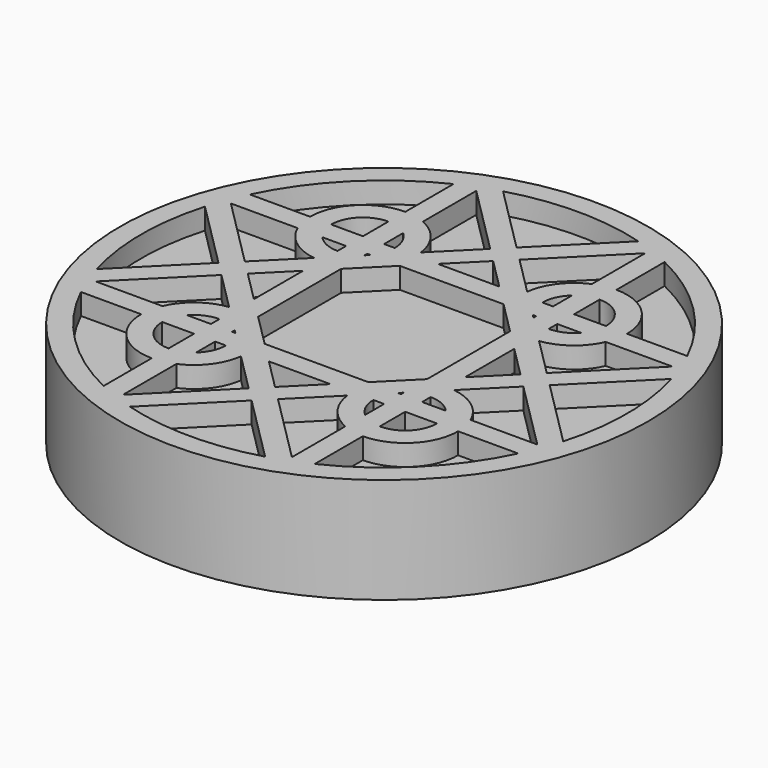
from build123d import *

# Parameters (mm, degrees)
F0_R     = 12.5
F1_DEPTH = 5
F2_DEPTH = 4


with BuildPart() as f1:
    # F0 (on Top) → F1 (new body)
    with BuildSketch(Plane.XY):
        Circle(F0_R)
        with BuildLine():
            Line((-10.356158, -5), (-7.5055, -5))
            ThreePointArc((-7.5055, -5), (-6.771656, -6.771656), (-5, -7.5055))
            Line((-5, -7.5055), (-5, -10.356158))
            ThreePointArc((-5, -10.356158), (-8.131728, -8.131728), (-10.356158, -5))
        make_face(mode=Mode.SUBTRACT)
        with BuildLine():
            Line((-3.202399, -11.045118), (0, -7.842719))
            Line((0, -7.842719), (3.202399, -11.045118))
            ThreePointArc((3.202399, -11.045118), (0, -11.5), (-3.202399, -11.045118))
        make_face(mode=Mode.SUBTRACT)
        with BuildLine():
            Line((-0.69314, -7.149579), (-4, -10.456439))
            Line((-4, -10.456439), (-4, -7.297288))
            ThreePointArc((-4, -7.297288), (-2.998645, -6.507352), (-2.515906, -5.326813))
            Line((-2.515906, -5.326813), (-0.69314, -7.149579))
        make_face(mode=Mode.SUBTRACT)
        with BuildLine():
            Line((-7.297288, -4), (-10.456439, -4))
            Line((-10.456439, -4), (-7.149579, -0.69314))
            Line((-7.149579, -0.69314), (-5.326813, -2.515906))
            ThreePointArc((-5.326813, -2.515906), (-6.507352, -2.998645), (-7.297288, -4))
        make_face(mode=Mode.SUBTRACT)
        with BuildLine():
            Line((-6.5055, -5), (-5, -5))
            Line((-5, -5), (-5, -6.5055))
            ThreePointArc((-5, -6.5055), (-6.064549, -6.064549), (-6.5055, -5))
        make_face(mode=Mode.SUBTRACT)
        with BuildLine():
            Line((-4, -6.125402), (-4, -5))
            Line((-4, -5), (-3.4945, -5))
            ThreePointArc((-3.4945, -5), (-3.626677, -5.616859), (-4, -6.125402))
        make_face(mode=Mode.SUBTRACT)
        with BuildLine():
            ThreePointArc((-6.125402, -4), (-5.616859, -3.626677), (-5, -3.4945))
            Line((-5, -3.4945), (-5, -4))
            Line((-5, -4), (-6.125402, -4))
        make_face(mode=Mode.SUBTRACT)
        Polygon((-3.842719, -4), (-4, -4), (-4, -3.842719), align=None, mode=Mode.SUBTRACT)
        with BuildLine():
            Line((4, -7.297288), (4, -10.456439))
            Line((4, -10.456439), (0.69314, -7.149579))
            Line((0.69314, -7.149579), (2.515906, -5.326813))
            ThreePointArc((2.515906, -5.326813), (2.998645, -6.507352), (4, -7.297288))
        make_face(mode=Mode.SUBTRACT)
        with BuildLine():
            ThreePointArc((5, -7.5055), (6.771656, -6.771656), (7.5055, -5))
            Line((7.5055, -5), (10.356158, -5))
            ThreePointArc((10.356158, -5), (8.131728, -8.131728), (5, -10.356158))
            Line((5, -10.356158), (5, -7.5055))
        make_face(mode=Mode.SUBTRACT)
        Polygon((-1.456439, -5), (0, -5), (1.456439, -5), (0, -6.456439), align=None, mode=Mode.SUBTRACT)
        with BuildLine():
            Line((3.4945, -5), (4, -5))
            Line((4, -5), (4, -6.125402))
            ThreePointArc((4, -6.125402), (3.626677, -5.616859), (3.4945, -5))
        make_face(mode=Mode.SUBTRACT)
        with BuildLine():
            Line((5, -6.5055), (5, -5))
            Line((5, -5), (6.5055, -5))
            ThreePointArc((6.5055, -5), (6.064549, -6.064549), (5, -6.5055))
        make_face(mode=Mode.SUBTRACT)
        Polygon((4, -4), (3.842719, -4), (4, -3.842719), align=None, mode=Mode.SUBTRACT)
        with BuildLine():
            Line((6.125402, -4), (5, -4))
            Line((5, -4), (5, -3.4945))
            ThreePointArc((5, -3.4945), (5.616859, -3.626677), (6.125402, -4))
        make_face(mode=Mode.SUBTRACT)
        with BuildLine():
            Line((7.149579, -0.69314), (10.456439, -4))
            Line((10.456439, -4), (7.297288, -4))
            ThreePointArc((7.297288, -4), (6.507352, -2.998645), (5.326813, -2.515906))
            Line((5.326813, -2.515906), (7.149579, -0.69314))
        make_face(mode=Mode.SUBTRACT)
        with BuildLine():
            Line((7.842719, 0), (11.045118, 3.202399))
            ThreePointArc((11.045118, 3.202399), (11.5, 0), (11.045118, -3.202399))
            Line((11.045118, -3.202399), (7.842719, 0))
        make_face(mode=Mode.SUBTRACT)
        with BuildLine():
            Line((-7.842719, 0), (-11.045118, -3.202399))
            ThreePointArc((-11.045118, -3.202399), (-11.5, 0), (-11.045118, 3.202399))
            Line((-11.045118, 3.202399), (-7.842719, 0))
        make_face(mode=Mode.SUBTRACT)
        with BuildLine():
            Line((-5.32697, 2.515749), (-7.149579, 0.69314))
            Line((-7.149579, 0.69314), (-10.456439, 4))
            Line((-10.456439, 4), (-7.297479, 4))
            ThreePointArc((-7.297479, 4), (-6.507542, 2.998569), (-5.32697, 2.515749))
        make_face(mode=Mode.SUBTRACT)
        Polygon((-6.456439, 0), (-5, 1.456439), (-5, -1.456439), align=None, mode=Mode.SUBTRACT)
        with BuildLine():
            Line((-6.125402, 4), (-5, 4))
            Line((-5, 4), (-5, 3.4945))
            ThreePointArc((-5, 3.4945), (-5.616859, 3.626677), (-6.125402, 4))
        make_face(mode=Mode.SUBTRACT)
        Polygon((-4, 4), (-3.842719, 4), (-4, 3.842719), align=None, mode=Mode.SUBTRACT)
        with BuildLine():
            Line((-5, 6.5055), (-5, 5))
            Line((-5, 5), (-6.5055, 5))
            ThreePointArc((-6.5055, 5), (-6.064549, 6.064549), (-5, 6.5055))
        make_face(mode=Mode.SUBTRACT)
        with BuildLine():
            ThreePointArc((-4, 6.125402), (-3.626677, 5.616859), (-3.4945, 5))
            Line((-3.4945, 5), (-4, 5))
            Line((-4, 5), (-4, 6.125402))
        make_face(mode=Mode.SUBTRACT)
        with BuildLine():
            ThreePointArc((-10.356158, 5), (-8.131728, 8.131728), (-5, 10.356158))
            Line((-5, 10.356158), (-5, 7.505676))
            ThreePointArc((-5, 7.505676), (-6.77178, 6.77178), (-7.505676, 5))
            Line((-7.505676, 5), (-10.356158, 5))
        make_face(mode=Mode.SUBTRACT)
        with BuildLine():
            Line((-4, 7.297479), (-4, 10.456439))
            Line((-4, 10.456439), (-0.69314, 7.149579))
            Line((-0.69314, 7.149579), (-2.515749, 5.32697))
            ThreePointArc((-2.515749, 5.32697), (-2.998569, 6.507542), (-4, 7.297479))
        make_face(mode=Mode.SUBTRACT)
        Polygon((-4, -2.456439), (-4, 2.456439), (-2.456439, 4), (2.456439, 4), (4, 2.456439), (4, -2.456439), (2.456439, -4), (-2.456439, -4), align=None, mode=Mode.SUBTRACT)
        Polygon((5, -1.456439), (5, 0), (5, 1.456439), (6.456439, 0), align=None, mode=Mode.SUBTRACT)
        Polygon((1.456439, 5), (0, 5), (-1.456439, 5), (0, 6.456439), align=None, mode=Mode.SUBTRACT)
        Polygon((3.842719, 4), (4, 4), (4, 3.842719), align=None, mode=Mode.SUBTRACT)
        with BuildLine():
            ThreePointArc((6.125402, 4), (5.616859, 3.626677), (5, 3.4945))
            Line((5, 3.4945), (5, 4))
            Line((5, 4), (6.125402, 4))
        make_face(mode=Mode.SUBTRACT)
        with BuildLine():
            Line((4, 5), (3.4945, 5))
            ThreePointArc((3.4945, 5), (3.626677, 5.616859), (4, 6.125402))
            Line((4, 6.125402), (4, 5))
        make_face(mode=Mode.SUBTRACT)
        with BuildLine():
            Line((6.5055, 5), (5, 5))
            Line((5, 5), (5, 6.5055))
            ThreePointArc((5, 6.5055), (6.064549, 6.064549), (6.5055, 5))
        make_face(mode=Mode.SUBTRACT)
        with BuildLine():
            Line((7.297479, 4), (10.456439, 4))
            Line((10.456439, 4), (7.149579, 0.69314))
            Line((7.149579, 0.69314), (5.32697, 2.515749))
            ThreePointArc((5.32697, 2.515749), (6.507542, 2.998569), (7.297479, 4))
        make_face(mode=Mode.SUBTRACT)
        with BuildLine():
            Line((0.69314, 7.149579), (4, 10.456439))
            Line((4, 10.456439), (4, 7.297479))
            ThreePointArc((4, 7.297479), (2.998569, 6.507542), (2.515749, 5.32697))
            Line((2.515749, 5.32697), (0.69314, 7.149579))
        make_face(mode=Mode.SUBTRACT)
        with BuildLine():
            Line((0, 7.842719), (-3.202399, 11.045118))
            ThreePointArc((-3.202399, 11.045118), (0, 11.5), (3.202399, 11.045118))
            Line((3.202399, 11.045118), (0, 7.842719))
        make_face(mode=Mode.SUBTRACT)
        with BuildLine():
            ThreePointArc((7.505676, 5), (6.77178, 6.77178), (5, 7.505676))
            Line((5, 7.505676), (5, 10.356158))
            ThreePointArc((5, 10.356158), (8.131728, 8.131728), (10.356158, 5))
            Line((10.356158, 5), (7.505676, 5))
        make_face(mode=Mode.SUBTRACT)
    extrude(amount=F1_DEPTH)

    # F0 (on Top) → F2 (join)
    with BuildSketch(Plane.XY):
        Polygon((-2.456439, 4), (-4, 2.456439), (-4, -2.456439), (-2.456439, -4), (2.456439, -4), (4, -2.456439), (4, 2.456439), (2.456439, 4), align=None)
        Polygon((-5, -1.456439), (-5, 1.456439), (-6.456439, 0), align=None)
        with BuildLine():
            Line((-10.456439, 4), (-7.149579, 0.69314))
            Line((-7.149579, 0.69314), (-5.32697, 2.515749))
            ThreePointArc((-5.32697, 2.515749), (-6.507542, 2.998569), (-7.297479, 4))
            Line((-7.297479, 4), (-10.456439, 4))
        make_face()
        with BuildLine():
            ThreePointArc((-11.045118, 3.202399), (-11.5, 0), (-11.045118, -3.202399))
            Line((-11.045118, -3.202399), (-7.842719, 0))
            Line((-7.842719, 0), (-11.045118, 3.202399))
        make_face()
        with BuildLine():
            Line((-7.149579, -0.69314), (-10.456439, -4))
            Line((-10.456439, -4), (-7.297288, -4))
            ThreePointArc((-7.297288, -4), (-6.507352, -2.998645), (-5.326813, -2.515906))
            Line((-5.326813, -2.515906), (-7.149579, -0.69314))
        make_face()
        with BuildLine():
            ThreePointArc((-5, -7.5055), (-6.771656, -6.771656), (-7.5055, -5))
            Line((-7.5055, -5), (-10.356158, -5))
            ThreePointArc((-10.356158, -5), (-8.131728, -8.131728), (-5, -10.356158))
            Line((-5, -10.356158), (-5, -7.5055))
        make_face()
        with BuildLine():
            Line((-4, -7.297288), (-4, -10.456439))
            Line((-4, -10.456439), (-0.69314, -7.149579))
            Line((-0.69314, -7.149579), (-2.515906, -5.326813))
            ThreePointArc((-2.515906, -5.326813), (-2.998645, -6.507352), (-4, -7.297288))
        make_face()
        with BuildLine():
            Line((3.202399, -11.045118), (0, -7.842719))
            Line((0, -7.842719), (-3.202399, -11.045118))
            ThreePointArc((-3.202399, -11.045118), (0, -11.5), (3.202399, -11.045118))
        make_face()
        with BuildLine():
            Line((0.69314, -7.149579), (4, -10.456439))
            Line((4, -10.456439), (4, -7.297288))
            ThreePointArc((4, -7.297288), (2.998645, -6.507352), (2.515906, -5.326813))
            Line((2.515906, -5.326813), (0.69314, -7.149579))
        make_face()
        Polygon((1.456439, -5), (0, -5), (-1.456439, -5), (0, -6.456439), align=None)
        with BuildLine():
            Line((10.356158, -5), (7.5055, -5))
            ThreePointArc((7.5055, -5), (6.771656, -6.771656), (5, -7.5055))
            Line((5, -7.5055), (5, -10.356158))
            ThreePointArc((5, -10.356158), (8.131728, -8.131728), (10.356158, -5))
        make_face()
        with BuildLine():
            Line((7.297288, -4), (10.456439, -4))
            Line((10.456439, -4), (7.149579, -0.69314))
            Line((7.149579, -0.69314), (5.326813, -2.515906))
            ThreePointArc((5.326813, -2.515906), (6.507352, -2.998645), (7.297288, -4))
        make_face()
        with BuildLine():
            ThreePointArc((11.045118, -3.202399), (11.5, 0), (11.045118, 3.202399))
            Line((11.045118, 3.202399), (7.842719, 0))
            Line((7.842719, 0), (11.045118, -3.202399))
        make_face()
        with BuildLine():
            Line((7.149579, 0.69314), (10.456439, 4))
            Line((10.456439, 4), (7.297479, 4))
            ThreePointArc((7.297479, 4), (6.507542, 2.998569), (5.32697, 2.515749))
            Line((5.32697, 2.515749), (7.149579, 0.69314))
        make_face()
        Polygon((5, 1.456439), (5, 0), (5, -1.456439), (6.456439, 0), align=None)
        with BuildLine():
            Line((5, 10.356158), (5, 7.505676))
            ThreePointArc((5, 7.505676), (6.77178, 6.77178), (7.505676, 5))
            Line((7.505676, 5), (10.356158, 5))
            ThreePointArc((10.356158, 5), (8.131728, 8.131728), (5, 10.356158))
        make_face()
        with BuildLine():
            Line((4, 7.297479), (4, 10.456439))
            Line((4, 10.456439), (0.69314, 7.149579))
            Line((0.69314, 7.149579), (2.515749, 5.32697))
            ThreePointArc((2.515749, 5.32697), (2.998569, 6.507542), (4, 7.297479))
        make_face()
        with BuildLine():
            ThreePointArc((3.202399, 11.045118), (0, 11.5), (-3.202399, 11.045118))
            Line((-3.202399, 11.045118), (0, 7.842719))
            Line((0, 7.842719), (3.202399, 11.045118))
        make_face()
        with BuildLine():
            Line((-0.69314, 7.149579), (-4, 10.456439))
            Line((-4, 10.456439), (-4, 7.297479))
            ThreePointArc((-4, 7.297479), (-2.998569, 6.507542), (-2.515749, 5.32697))
            Line((-2.515749, 5.32697), (-0.69314, 7.149579))
        make_face()
        with BuildLine():
            Line((-5, 7.505676), (-5, 10.356158))
            ThreePointArc((-5, 10.356158), (-8.131728, 8.131728), (-10.356158, 5))
            Line((-10.356158, 5), (-7.505676, 5))
            ThreePointArc((-7.505676, 5), (-6.77178, 6.77178), (-5, 7.505676))
        make_face()
        Polygon((-1.456439, 5), (0, 5), (1.456439, 5), (0, 6.456439), align=None)
        with BuildLine():
            Line((-6.5055, 5), (-5, 5))
            Line((-5, 5), (-5, 6.5055))
            ThreePointArc((-5, 6.5055), (-6.064549, 6.064549), (-6.5055, 5))
        make_face()
        with BuildLine():
            Line((-4, 5), (-3.4945, 5))
            ThreePointArc((-3.4945, 5), (-3.626677, 5.616859), (-4, 6.125402))
            Line((-4, 6.125402), (-4, 5))
        make_face()
        with BuildLine():
            Line((-5, 3.4945), (-5, 4))
            Line((-5, 4), (-6.125402, 4))
            ThreePointArc((-6.125402, 4), (-5.616859, 3.626677), (-5, 3.4945))
        make_face()
        with BuildLine():
            Line((-5, -4), (-5, -3.4945))
            ThreePointArc((-5, -3.4945), (-5.616859, -3.626677), (-6.125402, -4))
            Line((-6.125402, -4), (-5, -4))
        make_face()
        with BuildLine():
            Line((-5, -6.5055), (-5, -5))
            Line((-5, -5), (-6.5055, -5))
            ThreePointArc((-6.5055, -5), (-6.064549, -6.064549), (-5, -6.5055))
        make_face()
        with BuildLine():
            Line((-3.4945, -5), (-4, -5))
            Line((-4, -5), (-4, -6.125402))
            ThreePointArc((-4, -6.125402), (-3.626677, -5.616859), (-3.4945, -5))
        make_face()
        with BuildLine():
            Line((5, -3.4945), (5, -4))
            Line((5, -4), (6.125402, -4))
            ThreePointArc((6.125402, -4), (5.616859, -3.626677), (5, -3.4945))
        make_face()
        with BuildLine():
            Line((6.5055, -5), (5, -5))
            Line((5, -5), (5, -6.5055))
            ThreePointArc((5, -6.5055), (6.064549, -6.064549), (6.5055, -5))
        make_face()
        with BuildLine():
            Line((4, -6.125402), (4, -5))
            Line((4, -5), (3.4945, -5))
            ThreePointArc((3.4945, -5), (3.626677, -5.616859), (4, -6.125402))
        make_face()
        with BuildLine():
            Line((5, 4), (5, 3.4945))
            ThreePointArc((5, 3.4945), (5.616859, 3.626677), (6.125402, 4))
            Line((6.125402, 4), (5, 4))
        make_face()
        with BuildLine():
            Line((5, 6.5055), (5, 5))
            Line((5, 5), (6.5055, 5))
            ThreePointArc((6.5055, 5), (6.064549, 6.064549), (5, 6.5055))
        make_face()
        with BuildLine():
            ThreePointArc((4, 6.125402), (3.626677, 5.616859), (3.4945, 5))
            Line((3.4945, 5), (4, 5))
            Line((4, 5), (4, 6.125402))
        make_face()
        Polygon((4, 3.842719), (4, 4), (3.842719, 4), align=None)
        Polygon((4, -3.842719), (3.842719, -4), (4, -4), align=None)
        Polygon((-4, -3.842719), (-4, -4), (-3.842719, -4), align=None)
        Polygon((-4, 3.842719), (-3.842719, 4), (-4, 4), align=None)
    extrude(amount=F2_DEPTH)


solid = f1.part
